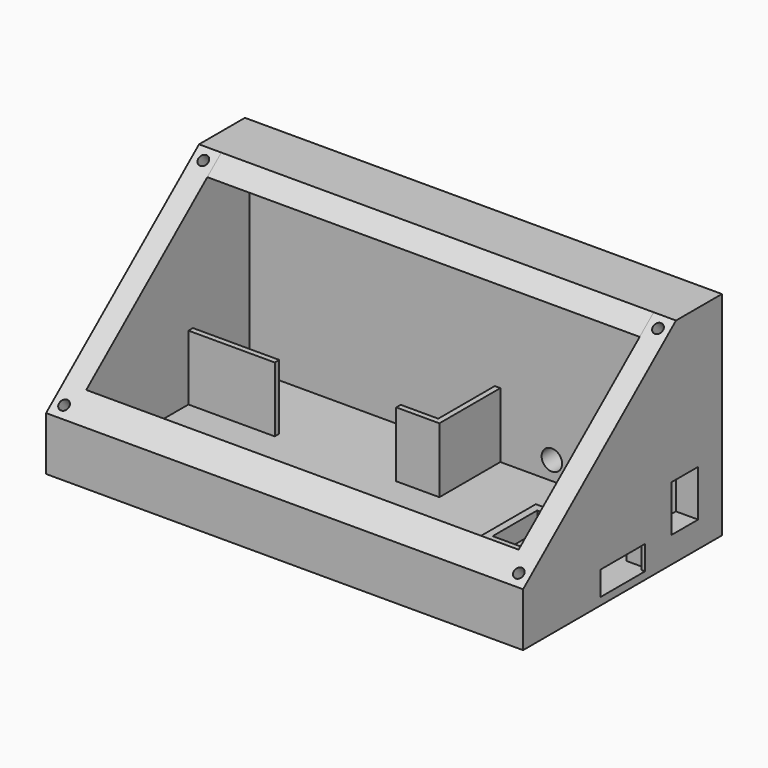
from build123d import *

# Parameters (mm, degrees)
F0_W      = 128.3
F0_H      = 66.85852
F0_W_2    = 116.3
F0_H_2    = 54.85852
F1_DEPTH  = 70
F2_DEPTH  = 2
F4_DEPTH  = 130
F5_W      = 9
F5_H      = 12.5
F6_DEPTH  = 7
F5_W_2    = 15
F5_H_2    = 6.5
F7_DEPTH  = 7
F9_DEPTH  = 5
F11_DEPTH = 5
F12_W     = 23.2212013245
F12_H     = 1.5
F13_DEPTH = 17.5
F15_R     = 1.35
F16_DEPTH = 9.5
F18_DEPTH = 141.4
F19_DEPTH = 133.9
F21_DEPTH = 128.26
F22_DEPTH = 9
F23_R     = 2.75
F24_DEPTH = 25


with BuildPart() as f1:
    # F0 (on Top) → F1 (new body)
    with BuildSketch(Plane.XY):
        Rectangle(F0_W, F0_H)
        Rectangle(F0_W_2, F0_H_2, mode=Mode.SUBTRACT)
    extrude(amount=F1_DEPTH)

    # F0 (on Top) → F2 (join)
    with BuildSketch(Plane.XY):
        Rectangle(F0_W_2, F0_H_2)
    extrude(amount=F2_DEPTH)

    # F3 (on face) → F4 (cut)
    with BuildSketch(Plane.YZ.offset(64.15)):
        Polygon((-33.42926, 14.4301047549), (33.42926, 70), (-33.42926, 70), align=None)
    extrude(amount=-F4_DEPTH, mode=Mode.SUBTRACT)

    # F5 (on face) → F6 (cut)
    with BuildSketch(Plane.YZ.offset(64.15)):
        with Locations((20.92926, 13.25)):
            Rectangle(F5_W, F5_H)
    extrude(amount=-F6_DEPTH, mode=Mode.SUBTRACT)

    # F5 (on face) → F7 (cut)
    with BuildSketch(Plane.YZ.offset(64.15)):
        with Locations((0.0932381302, 5.25)):
            Rectangle(F5_W_2, F5_H_2)
    extrude(amount=-F7_DEPTH, mode=Mode.SUBTRACT)

    # F8 (on face) → F9 (cut)
    with BuildSketch(Plane(origin=(58.15, 0, 0), x_dir=(0, -1, 0), z_dir=(-1, 0, 0))):
        Polygon((-8.8432381302, 13.5), (-8.8432381302, 2), (-7.5932381302, 2), (-7.5932381302, 8.5), (7.4067618698, 8.5), (7.4067618698, 2), (8.6567618698, 2), (8.6567618698, 13.5), align=None)
    extrude(amount=-F9_DEPTH, mode=Mode.SUBTRACT)

    # F10 (on face) → F11 (join)
    with BuildSketch(Plane.XY.offset(2)):
        Polygon((33.15, 9.5932381302), (33.15, 7.5932381302), (33.15, -7.4067618698), (33.15, -9.4067618698), (43.15, -9.4067618698), (43.15, -7.4067618698), (35.15, -7.4067618698), (35.15, 7.5932381302), (43.15, 7.5932381302), (43.15, 9.5932381302), align=None)
    extrude(amount=F11_DEPTH)

    # F12 (on face) → F13 (join)
    with BuildSketch(Plane.XY.offset(2)):
        with Locations((-46.5393993378, 7.67926)):
            Rectangle(F12_W, F12_H)
        Polygon((9.35, 27.42926), (7.85, 27.42926), (7.85, 8.42926), (-2.2495171815, 8.42926), (-2.2495171815, 6.92926), (9.35, 6.92926), (9.35, 8.42926), align=None)
    extrude(amount=F13_DEPTH)

    # F15 (on offset) → F16 (cut)
    with BuildSketch(Plane(origin=(0, -21.2629991115, 25.582424532), x_dir=(1, 0, 0), z_dir=(0, -0.6391959003, 0.7690439526))):
        with Locations((-61.15, -13.4849064425)):
            Circle(F15_R)
        with Locations((61.15, -13.4849064425)):
            Circle(F15_R)
    extrude(amount=-F16_DEPTH, mode=Mode.SUBTRACT)

    # F17 (on face) → F18 (cut)
    with BuildSketch(Plane.YZ.offset(64.15)):
        Polygon((92.054369559, 57.1661034537), (92.054369559, 115.2663065398), (-2.9636703822, 115.2663065398), (-2.9636703822, 57.1661034537), (17.9882496267, 57.1661034537), (33.42926, 70), (33.42926, 57.1661034537), align=None)
    extrude(amount=-F18_DEPTH, mode=Mode.SUBTRACT)

    # F17 (on face) → F19 (cut)
    with BuildSketch(Plane.YZ.offset(64.15)):
        Polygon((17.9882496267, 57.1661034537), (33.42926, 57.1661034537), (33.42926, 70), align=None)
    extrude(amount=-F19_DEPTH, mode=Mode.SUBTRACT)

    # F20 (on face) → F21 (join)
    with BuildSketch(Plane.YZ.offset(64.15)):
        Polygon((17.9882496267, 57.1661034537), (13.2818869306, 53.254379383), (33.42926, 43.7797382474), (33.42926, 57.1661034537), align=None)
    extrude(amount=-F21_DEPTH)

    # F15 (on offset) → F22 (cut)
    with BuildSketch(Plane(origin=(0, -21.2629991115, 25.582424532), x_dir=(1, 0, 0), z_dir=(0, -0.6391959003, 0.7690439526))):
        with Locations((61.15, 47.3736135575)):
            Circle(F15_R)
        with Locations((-61.15, 47.3736135575)):
            Circle(F15_R)
    extrude(amount=-F22_DEPTH, mode=Mode.SUBTRACT)

    # F23 (on face) → F24 (cut)
    with BuildSketch(Plane.XZ.offset(-27.42926)):
        with Locations((23.2078029529, 6.984276909)):
            Circle(F23_R)
        with Locations((31.4362019996, 6.984276909)):
            Circle(F23_R)
    extrude(amount=-F24_DEPTH, mode=Mode.SUBTRACT)


solid = f1.part
